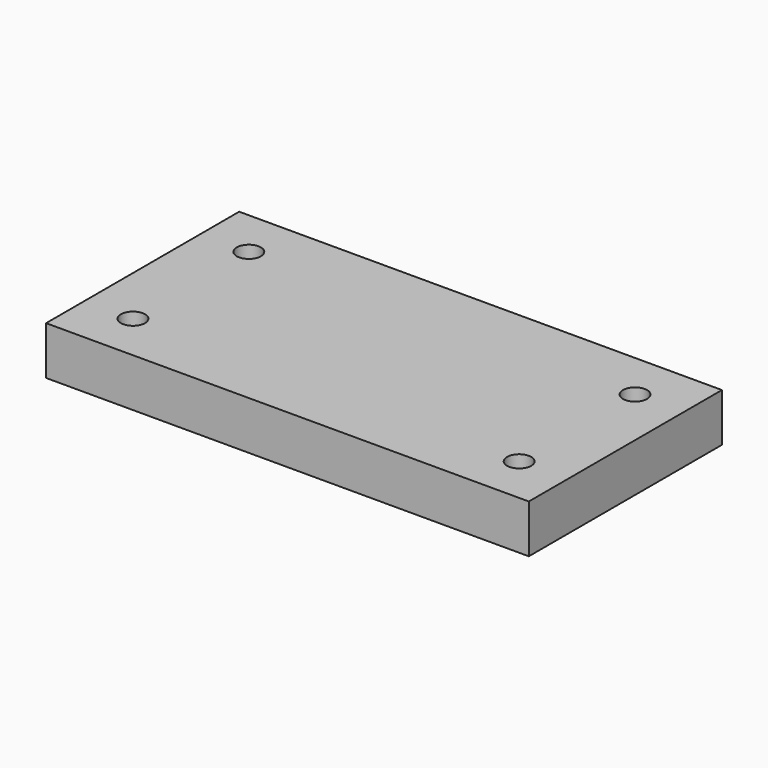
from build123d import *

# Parameters (mm, degrees)
F0_W           = 100
F0_H           = 50
F1_DEPTH       = 10
F2_D           = 5
F2_CSINK_D     = 10
F2_CSINK_ANGLE = 90


with BuildPart() as f1:
    # F0 (on Top) → F1 (new body)
    with BuildSketch(Plane.XY):
        Rectangle(F0_W, F0_H)
    extrude(amount=F1_DEPTH)

    # F2 (through all)
    with Locations(Plane(origin=(0, 0, 0), x_dir=(1, 0, 0), z_dir=(0, 0, -1))):
        with Locations((-40, -15), (40, 15), (-40, 15), (40, -15)):
            CounterSinkHole(F2_D / 2, F2_CSINK_D / 2, counter_sink_angle=F2_CSINK_ANGLE)


solid = f1.part
